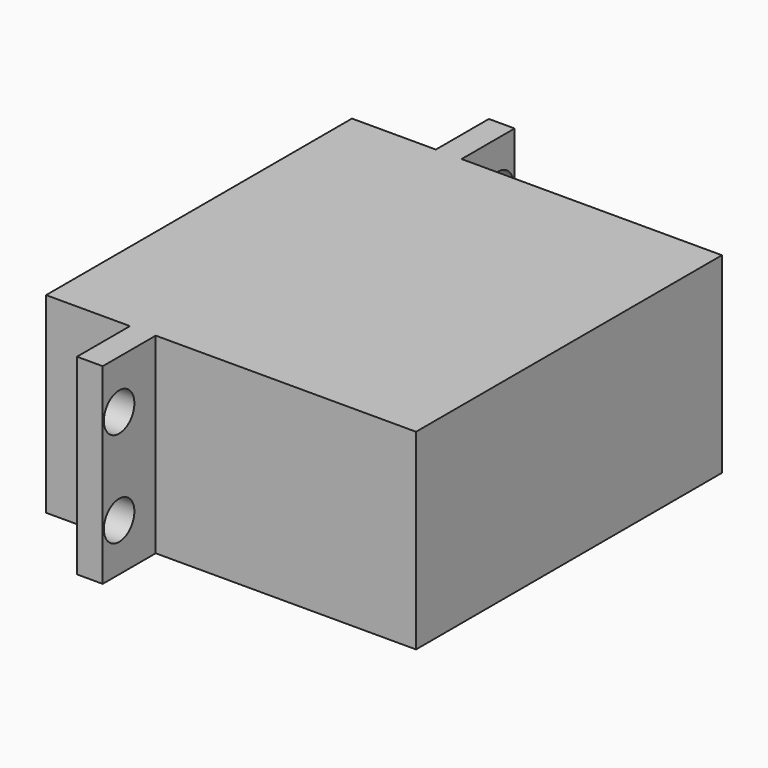
from build123d import *

# Parameters (mm, degrees)
CYLINDER178_R     = 2
CYLINDER178_DEPTH = 20
CYLINDER177_R     = 2
CYLINDER177_DEPTH = 20
CYLINDER175_R     = 2
CYLINDER175_DEPTH = 20
CYLINDER176_R     = 2
CYLINDER176_DEPTH = 20
BOX069_W          = 38.8
BOX069_H          = 40.1
BOX069_DEPTH      = 20.1
BOX084_W          = 2.7
BOX084_H          = 54
BOX084_DEPTH      = 20.1


with BuildPart() as cylinder178:
    # Cylinder178 → Cylinder178 (new body)
    with BuildSketch(Plane(origin=(-97.2, -71.8, 5), x_dir=(0, 0, -1), z_dir=(1, 0, 0))):
        Circle(CYLINDER178_R)
    extrude(amount=CYLINDER178_DEPTH)


with BuildPart() as cylinder177:
    # Cylinder177 → Cylinder177 (new body)
    with BuildSketch(Plane(origin=(-97.2, -71.8, 15), x_dir=(0, 0, -1), z_dir=(1, 0, 0))):
        Circle(CYLINDER177_R)
    extrude(amount=CYLINDER177_DEPTH)


with BuildPart() as cylinder175:
    # Cylinder175 → Cylinder175 (new body)
    with BuildSketch(Plane(origin=(-97.2, -22.1, 5), x_dir=(0, 0, -1), z_dir=(1, 0, 0))):
        Circle(CYLINDER175_R)
    extrude(amount=CYLINDER175_DEPTH)


with BuildPart() as cylinder176:
    # Cylinder176 → Cylinder176 (new body)
    with BuildSketch(Plane(origin=(-97.2, -22.1, 15), x_dir=(0, 0, -1), z_dir=(1, 0, 0))):
        Circle(CYLINDER176_R)
    extrude(amount=CYLINDER176_DEPTH)


with BuildPart() as box069:
    # Box069 → Box069 (new body)
    with BuildSketch(Plane(origin=(82, -93, 0), x_dir=(1, 0, 0), z_dir=(0, 0, 1))):
        with Locations((19.4, 20.05)):
            Rectangle(BOX069_W, BOX069_H)
    extrude(amount=BOX069_DEPTH)


with BuildPart() as cut131:
    # Box084 → Box084 (new body)
    with BuildSketch(Plane(origin=(90.8, -99.95, 0), x_dir=(1, 0, 0), z_dir=(0, 0, 1))):
        with Locations((1.35, 27)):
            Rectangle(BOX084_W, BOX084_H)
    extrude(amount=BOX084_DEPTH)

    # Fusion084: union Box069
    add(box069.part)


with BuildPart() as cut131_1:
    # Fusion084 placement: moved
    add(cut131.part.moved(Location((-188, 26, 0))))

    # Cut128: cut Cylinder176
    add(cylinder176.part, mode=Mode.SUBTRACT)

    # Cut129: cut Cylinder175
    add(cylinder175.part, mode=Mode.SUBTRACT)

    # Cut130: cut Cylinder177
    add(cylinder177.part, mode=Mode.SUBTRACT)

    # Cut131: cut Cylinder178
    add(cylinder178.part, mode=Mode.SUBTRACT)


with BuildPart() as cut131_2:
    # Cut131 placement: moved
    add(cut131_1.part.moved(Location((4, 10, 0))))


solid = cut131_2.part
